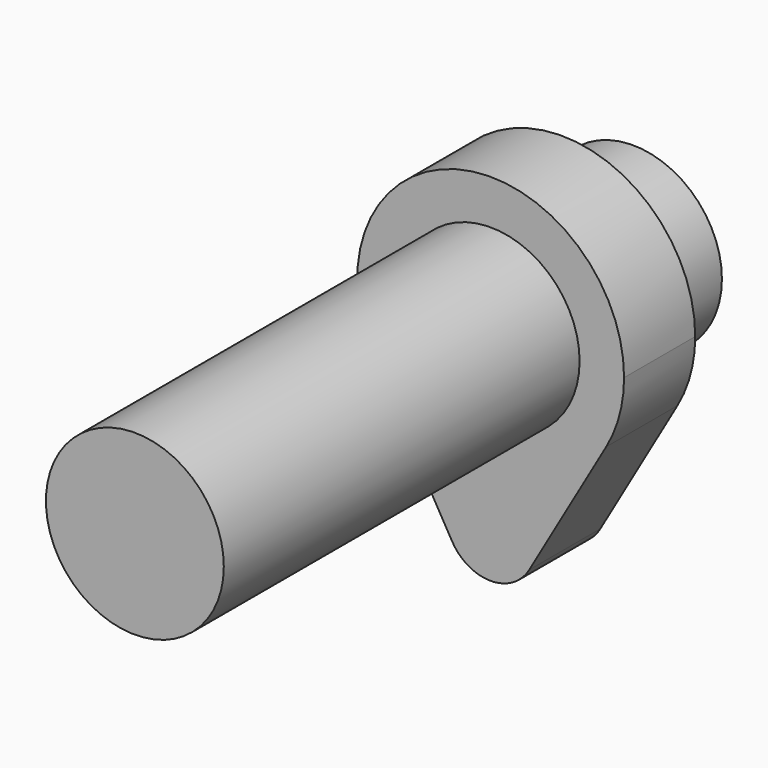
from build123d import *

# Parameters (mm, degrees)
F0_R          = 12.7
F1_DEPTH      = 12.7
F2_R          = 12.7
F3_DEPTH      = 76.2
F3_DEPTH_BACK = 12.7


with BuildPart() as f1:
    # F0 (on Front) → F1 (new body)
    with BuildSketch(Plane.XZ):
        with BuildLine():
            Line((5.499261, -28.575), (16.497784, -9.525))
            ThreePointArc((16.497784, -9.525), (9.525, -16.497784), (0, -19.05))
            ThreePointArc((0, -19.05), (4.490128, -20.909872), (6.35, -25.4))
            ThreePointArc((6.35, -25.4), (6.133629, -27.043501), (5.499261, -28.575))
        make_face()
        with BuildLine():
            ThreePointArc((6.35, -25.4), (4.490128, -20.909872), (0, -19.05))
            ThreePointArc((0, -19.05), (-5.499261, -22.225), (-5.499261, -28.575))
            ThreePointArc((-5.499261, -28.575), (0, -31.75), (5.499261, -28.575))
            ThreePointArc((5.499261, -28.575), (6.133629, -27.043501), (6.35, -25.4))
        make_face()
        with BuildLine():
            ThreePointArc((16.497784, -9.525), (18.400887, -4.930503), (19.05, 0))
            ThreePointArc((19.05, 0), (-4.930503, 18.400887), (-16.497784, -9.525))
            ThreePointArc((-16.497784, -9.525), (-9.525, -16.497784), (0, -19.05))
            ThreePointArc((0, -19.05), (9.525, -16.497784), (16.497784, -9.525))
        make_face()
        Circle(F0_R, mode=Mode.SUBTRACT)
        with BuildLine():
            ThreePointArc((0, -19.05), (-9.525, -16.497784), (-16.497784, -9.525))
            Line((-16.497784, -9.525), (-5.499261, -28.575))
            ThreePointArc((-5.499261, -28.575), (-5.499261, -22.225), (0, -19.05))
        make_face()
    extrude(amount=F1_DEPTH)


with BuildPart() as f3:
    # F2 (on Front) → F3 (new body, two sides)
    with BuildSketch(Plane.XZ) as f3_sk:
        Circle(F2_R)
    extrude(amount=F3_DEPTH)
    extrude(f3_sk.sketch, amount=-F3_DEPTH_BACK)


solid = Compound([f1.part, f3.part])
